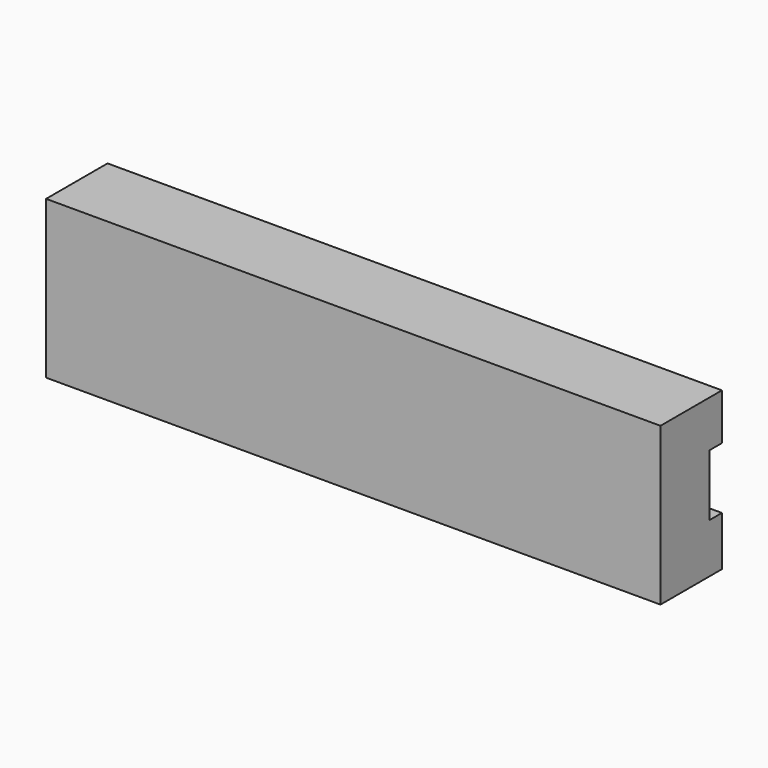
from build123d import *

# Parameters (mm, degrees)
BOX024_W     = 40
BOX024_H     = 1
BOX024_DEPTH = 4
BOX025_W     = 40
BOX025_H     = 5
BOX025_DEPTH = 10.25


with BuildPart() as cube024:
    # Box024 → Box024 (new body)
    with BuildSketch(Plane(origin=(0, 9, 3.225), x_dir=(1, 0, 0), z_dir=(0, 0, 1))):
        with Locations((20, 0.5)):
            Rectangle(BOX024_W, BOX024_H)
    extrude(amount=BOX024_DEPTH)


with BuildPart() as t_slot_align_cut:
    # Box025 → Box025 (new body)
    with BuildSketch(Plane(origin=(0, 5, 0), x_dir=(1, 0, 0), z_dir=(0, 0, 1))):
        with Locations((20, 2.5)):
            Rectangle(BOX025_W, BOX025_H)
    extrude(amount=BOX025_DEPTH)

    # Cut025: cut Cube024
    add(cube024.part, mode=Mode.SUBTRACT)


solid = t_slot_align_cut.part
